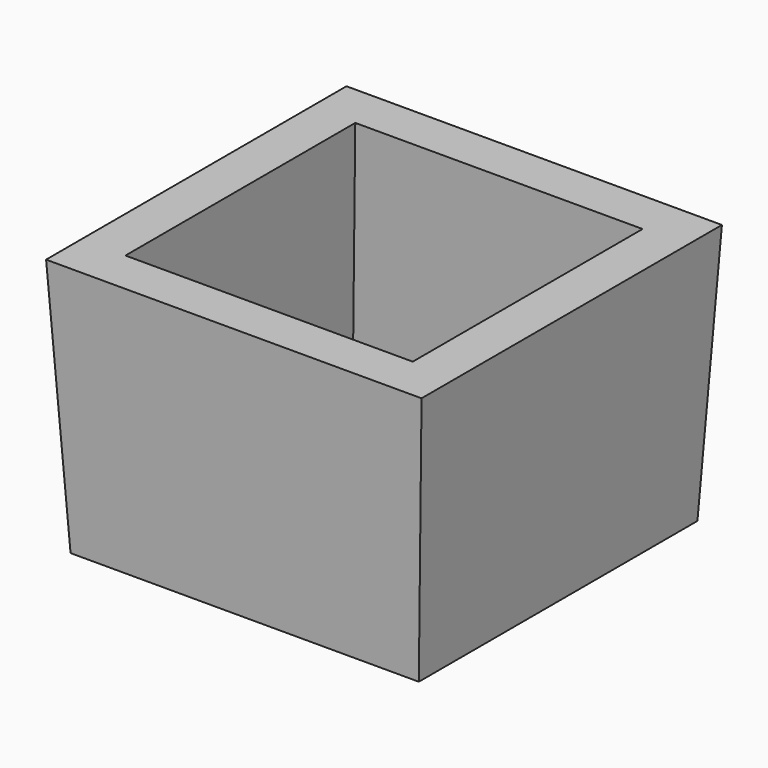
from build123d import *

# Parameters (mm, degrees)
F0_W     = 111.85
F0_H     = 111.85
F0_W_2   = 101
F0_H_2   = 101
F1_DEPTH = 83.34
F1_TAPER = -3
F2_DEPTH = 4.26


with BuildPart() as f1:
    # F0 (on Top) → F1 (new body)
    with BuildSketch(Plane.XY):
        with Locations((0.0273388714, -0.306435948)):
            Rectangle(F0_W, F0_H)
        with Locations((0.0273388714, -0.306435948)):
            Rectangle(F0_W_2, F0_H_2, mode=Mode.SUBTRACT)
    extrude(amount=F1_DEPTH, taper=F1_TAPER)

    # F0 (on Top) → F2 (join)
    with BuildSketch(Plane.XY):
        with Locations((0.0273388714, -0.306435948)):
            Rectangle(F0_W_2, F0_H_2)
    extrude(amount=F2_DEPTH)


solid = f1.part
